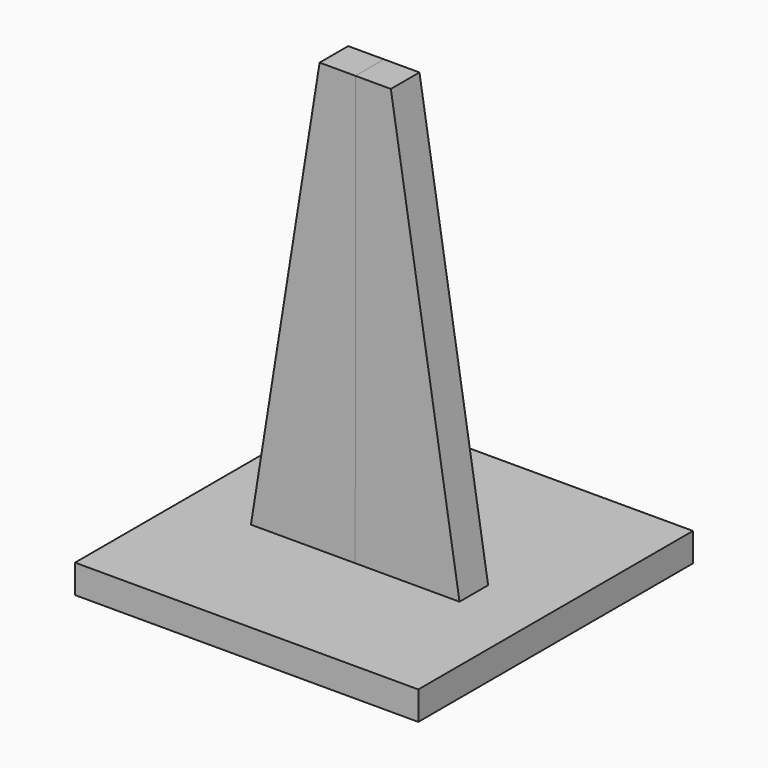
from build123d import *

# Parameters (mm, degrees)
F0_W     = 304.8
F0_H     = 304.8
F1_DEPTH = 25.4
F4_DEPTH = 31.75


with BuildPart() as f1:
    # F0 (on Top) → F1 (new body)
    with BuildSketch(Plane.XY):
        Rectangle(F0_W, F0_H)
    extrude(amount=F1_DEPTH)


with BuildPart() as f4:
    # F3 (on Front) → F4 (new body)
    with BuildSketch(Plane.XZ):
        Polygon((-0.1485930994, 25.4), (92.4412335724, 25.4), (31.4833547443, 406.3999710237), (-0.2971861988, 406.3999710237), align=None)
    extrude(amount=F4_DEPTH)


with BuildPart() as f4b:
    # F2 (on Front) → F4, piece 2 (new body)
    with BuildSketch(Plane.XZ):
        Polygon((-31.7805409431, 406.3999710237), (-92.7384197712, 25.4), (-0.1485930994, 25.4), (0, 406.3999710237), align=None)
    extrude(amount=F4_DEPTH)


solid = Compound([f1.part, f4.part, f4b.part])
